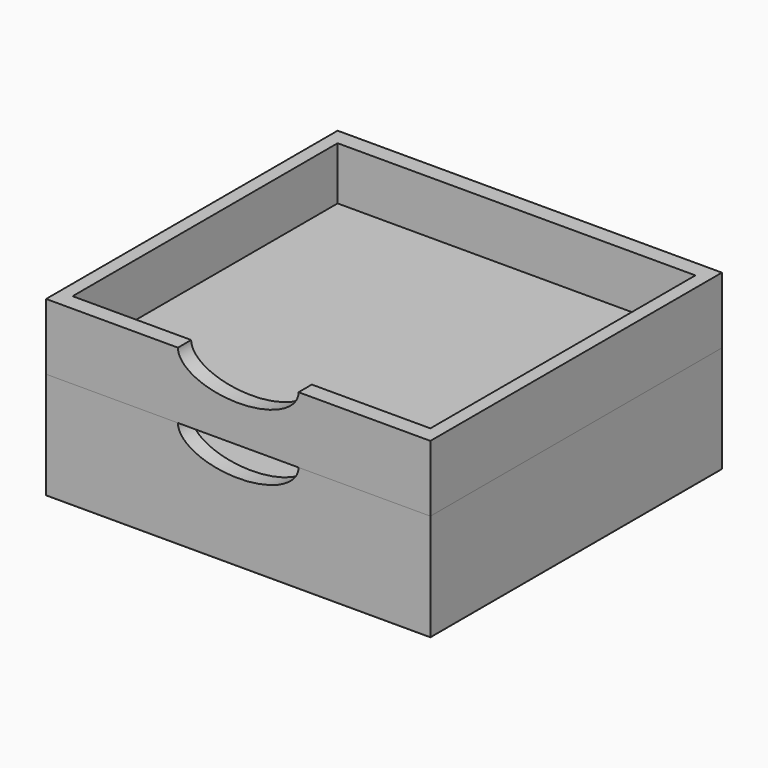
from build123d import *

# Parameters (mm, degrees)
F0_W      = 580
F0_H      = 550
F1_DEPTH  = 1
F2_W      = 580
F2_H      = 550
F3_DEPTH  = 160
F5_DEPTH  = 25
F6_W      = 540
F6_H      = 500
F7_DEPTH  = 80
F8_W      = 580
F8_H      = 550
F9_DEPTH  = 100
F11_DEPTH = 25
F12_W     = 540
F12_H     = 500
F13_DEPTH = 80


with BuildPart() as f1:
    # F0 (on Top) → F1 (new body)
    with BuildSketch(Plane.XY):
        Rectangle(F0_W, F0_H)
    extrude(amount=F1_DEPTH)


with BuildPart() as f3:
    # F2 (on face) → F3 (new body)
    with BuildSketch(Plane.XY.offset(1)):
        Rectangle(F2_W, F2_H)
    extrude(amount=F3_DEPTH)

    # F4 (on face) → F5 (cut)
    with BuildSketch(Plane.XZ.offset(275)):
        with BuildLine():
            add(Edge.make_bspline(
                [(91.037959, 161), (91.037959, 237.25139), (-45.518979, 199.125695), (-182.075918, 161), (-45.518979, 122.874305), (91.037959, 84.74861), (91.037959, 161)],
                knots=[0, 0, 0, 2.094395, 2.094395, 4.18879, 4.18879, 6.283185, 6.283185, 6.283185], degree=2, weights=[1, 0.5, 1, 0.5, 1, 0.5, 1]))
        make_face()
    extrude(amount=-F5_DEPTH, mode=Mode.SUBTRACT)

    # F6 (on face) → F7 (cut)
    with BuildSketch(Plane.XY.offset(161)):
        Rectangle(F6_W, F6_H)
    extrude(amount=-F7_DEPTH, mode=Mode.SUBTRACT)


with BuildPart() as f9:
    # F8 (on face) → F9 (new body)
    with BuildSketch(Plane.XY.offset(161)):
        Rectangle(F8_W, F8_H)
    extrude(amount=F9_DEPTH)

    # F10 (on face) → F11 (cut)
    with BuildSketch(Plane.XZ.offset(275)):
        with BuildLine():
            add(Edge.make_bspline(
                [(91.037959, 261), (91.037959, 337.25139), (-45.518979, 299.125695), (-182.075918, 261), (-45.518979, 222.874305), (91.037959, 184.74861), (91.037959, 261)],
                knots=[0, 0, 0, 2.094395, 2.094395, 4.18879, 4.18879, 6.283185, 6.283185, 6.283185], degree=2, weights=[1, 0.5, 1, 0.5, 1, 0.5, 1]))
        make_face()
    extrude(amount=-F11_DEPTH, mode=Mode.SUBTRACT)

    # F12 (on face) → F13 (cut)
    with BuildSketch(Plane.XY.offset(261)):
        Rectangle(F12_W, F12_H)
    extrude(amount=-F13_DEPTH, mode=Mode.SUBTRACT)


solid = Compound([f1.part, f3.part, f9.part])
